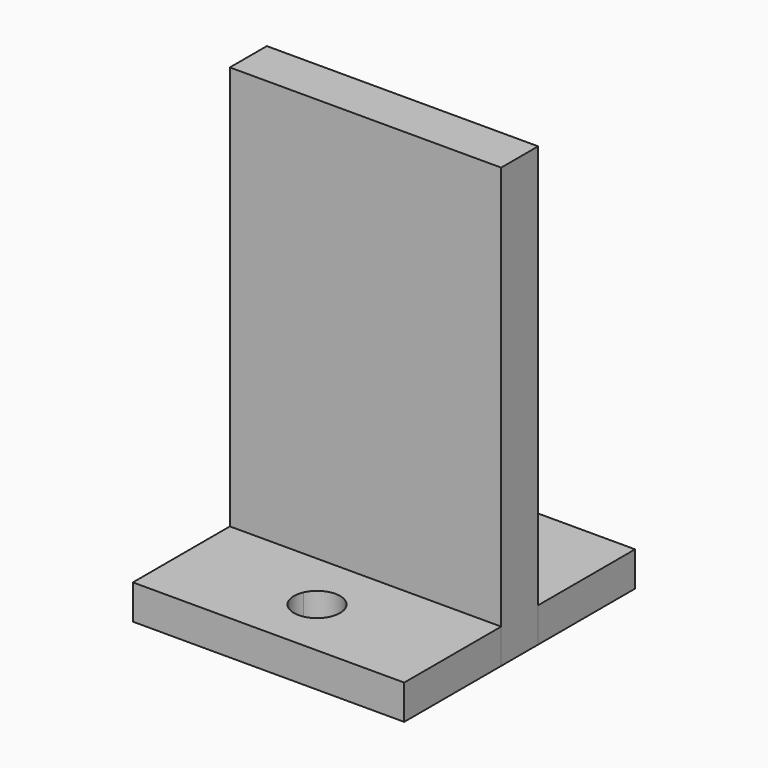
from build123d import *

# Parameters (mm, degrees)
F1_DEPTH = 3
F0_W     = 23.5
F0_H     = 4
F2_DEPTH = 38


with BuildPart() as f1:
    # F0 (on Top) → F1 (new body)
    with BuildSketch(Plane.XY):
        with BuildLine():
            Line((1.826017, 8.06588), (11.75, 12.5))
            Line((11.75, 12.5), (-11.75, 12.5))
            Line((-11.75, 12.5), (-11.75, 2))
            Line((-11.75, 2), (-1.826017, 6.43412))
            ThreePointArc((-1.826017, 6.43412), (-0.81588, 9.076017), (1.826017, 8.06588))
        make_face()
        with BuildLine():
            Line((11.75, 2), (11.75, 12.5))
            Line((11.75, 12.5), (1.826017, 8.06588))
            ThreePointArc((1.826017, 8.06588), (1.956021, 7.667112), (2, 7.25))
            ThreePointArc((2, 7.25), (0.417112, 5.293979), (-1.826017, 6.43412))
            Line((-1.826017, 6.43412), (-11.75, 2))
            Line((-11.75, 2), (11.75, 2))
        make_face()
        with BuildLine():
            Line((-1.826017, -6.43412), (-11.75, -2))
            Line((-11.75, -2), (-11.75, -12.5))
            Line((-11.75, -12.5), (11.75, -12.5))
            Line((11.75, -12.5), (1.826017, -8.06588))
            ThreePointArc((1.826017, -8.06588), (-0.81588, -9.076017), (-1.826017, -6.43412))
        make_face()
        with BuildLine():
            Line((11.75, -12.5), (11.75, -2))
            Line((11.75, -2), (-11.75, -2))
            Line((-11.75, -2), (-1.826017, -6.43412))
            ThreePointArc((-1.826017, -6.43412), (0.417112, -5.293979), (2, -7.25))
            ThreePointArc((2, -7.25), (1.956021, -7.667112), (1.826017, -8.06588))
            Line((1.826017, -8.06588), (11.75, -12.5))
        make_face()
    extrude(amount=F1_DEPTH)


with BuildPart() as f2:
    # F0 (on Top) → F2 (new body)
    with BuildSketch(Plane.XY):
        Rectangle(F0_W, F0_H)
    extrude(amount=F2_DEPTH)


solid = Compound([f1.part, f2.part])
